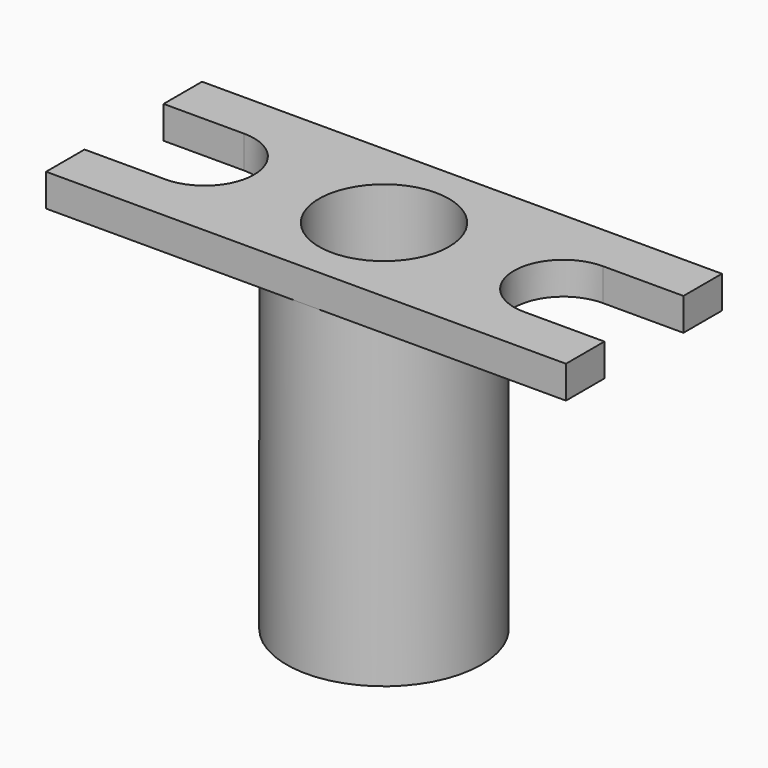
from build123d import *

# Parameters (mm, degrees)
F0_R     = 19.05
F1_DEPTH = 69.85
F2_R     = 12.7
F3_DEPTH = 63.5
F5_DEPTH = 6.35
F6_R     = 4.7625
F7_DEPTH = 69.851


with BuildPart() as f1:
    # F0 (on Top) → F1 (new body)
    with BuildSketch(Plane.XY):
        Circle(F0_R)
    extrude(amount=F1_DEPTH)

    # F2 (on face) → F3 (cut)
    with BuildSketch(Plane.XY.offset(69.85)):
        Circle(F2_R)
    extrude(amount=-F3_DEPTH, mode=Mode.SUBTRACT)

    # F4 (on face) → F5 (join)
    with BuildSketch(Plane.XY.offset(69.85)):
        with BuildLine():
            Line((50.8, 19.05), (3.68e-08, 19.05))
            ThreePointArc((3.68e-08, 19.05), (13.4703841946, 13.4703841686), (19.05, 0))
            ThreePointArc((19.05, 0), (13.4703841946, -13.4703841686), (3.68e-08, -19.05))
            Line((3.68e-08, -19.05), (50.8, -19.05))
            Line((50.8, -19.05), (50.8, -9.652))
            Line((50.8, -9.652), (35.052, -9.652))
            ThreePointArc((35.052, -9.652), (25.4, 0), (35.052, 9.652))
            Line((35.052, 9.652), (50.8, 9.652))
            Line((50.8, 9.652), (50.8, 19.05))
        make_face()
        with BuildLine():
            Line((3.68e-08, 19.05), (-50.8, 19.05))
            Line((-50.8, 19.05), (-50.8, 9.652))
            Line((-50.8, 9.652), (-35.052, 9.652))
            ThreePointArc((-35.052, 9.652), (-25.4, 0), (-35.052, -9.652))
            Line((-35.052, -9.652), (-50.8, -9.652))
            Line((-50.8, -9.652), (-50.8, -19.05))
            Line((-50.8, -19.05), (3.68e-08, -19.05))
            ThreePointArc((3.68e-08, -19.05), (-19.05, 0), (3.68e-08, 19.05))
        make_face()
    extrude(amount=-F5_DEPTH)

    # F6 (on face) → F7 (cut, through all)
    with BuildSketch(Plane(origin=(0, 0, 0), x_dir=(1, 0, 0), z_dir=(0, 0, -1))):
        Circle(F6_R)
    extrude(amount=-F7_DEPTH, mode=Mode.SUBTRACT)


solid = f1.part
